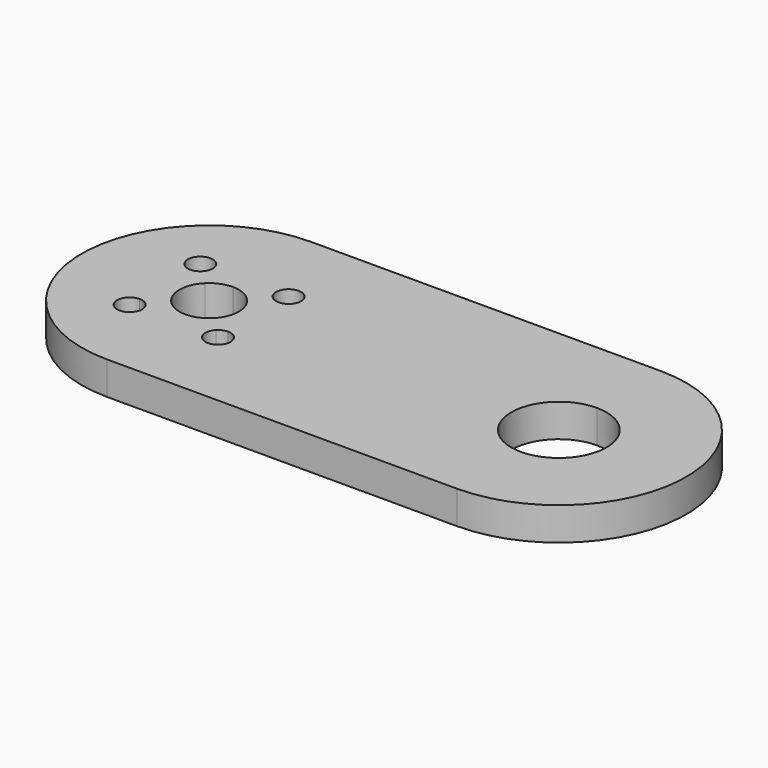
from build123d import *

# Parameters (mm, degrees)
F1_DEPTH = 6.604


with BuildPart() as f1:
    # F0 (on Top) → F1 (new body)
    with BuildSketch(Plane.XY):
        with BuildLine():
            Line((-35, 5.9436), (-35, 25.5))
            ThreePointArc((-35, 25.5), (-60.5, 0), (-35, -25.5))
            Line((-35, -25.5), (-35, -5.9436))
            ThreePointArc((-35, -5.9436), (-40.49117, -2.274517), (-39.20276, 4.20276))
            ThreePointArc((-39.20276, 4.20276), (-37.274517, 5.49117), (-35, 5.9436))
        make_face()
        with BuildLine():
            ThreePointArc((-41.338835, -8.839565), (-45.606602, -10.607332), (-43.838835, -6.339565))
            ThreePointArc((-43.838835, -6.339565), (-42.071068, -7.071798), (-41.338835, -8.839565))
        make_face(mode=Mode.SUBTRACT)
        with BuildLine():
            ThreePointArc((-41.338835, 8.838835), (-41.529136, 7.882126), (-42.071068, 7.071068))
            ThreePointArc((-42.071068, 7.071068), (-42.882126, 6.529136), (-43.838835, 6.338835))
            ThreePointArc((-43.838835, 6.338835), (-45.606602, 10.606602), (-41.338835, 8.838835))
        make_face(mode=Mode.SUBTRACT)
        with BuildLine():
            Line((35, 9.525), (35, 25.5))
            Line((35, 25.5), (-35, 25.5))
            Line((-35, 25.5), (-35, 5.9436))
            ThreePointArc((-35, 5.9436), (-30.79724, 4.20276), (-29.0564, 0))
            ThreePointArc((-29.0564, 0), (-29.50883, -2.274517), (-30.79724, -4.20276))
            ThreePointArc((-30.79724, -4.20276), (-32.725483, -5.49117), (-35, -5.9436))
            Line((-35, -5.9436), (-35, -25.5))
            Line((-35, -25.5), (35, -25.5))
            Line((35, -25.5), (35, -9.525))
            ThreePointArc((35, -9.525), (25.475, 0), (35, 9.525))
        make_face()
        with BuildLine():
            ThreePointArc((-23.663428, -8.836572), (-27.120137, -11.146271), (-27.931195, -7.068805))
            ThreePointArc((-27.931195, -7.068805), (-27.120137, -6.526873), (-26.163428, -6.336572))
            ThreePointArc((-26.163428, -6.336572), (-24.395661, -7.068805), (-23.663428, -8.836572))
        make_face(mode=Mode.SUBTRACT)
        with BuildLine():
            ThreePointArc((-23.663428, 8.841828), (-24.395661, 7.074061), (-26.163428, 6.341828))
            ThreePointArc((-26.163428, 6.341828), (-27.931195, 10.609595), (-23.663428, 8.841828))
        make_face(mode=Mode.SUBTRACT)
        with BuildLine():
            ThreePointArc((35, -25.5), (60.5, 0), (35, 25.5))
            Line((35, 25.5), (35, 9.525))
            ThreePointArc((35, 9.525), (41.735192, 6.735192), (44.525, 0))
            ThreePointArc((44.525, 0), (41.735192, -6.735192), (35, -9.525))
            Line((35, -9.525), (35, -25.5))
        make_face()
    extrude(amount=F1_DEPTH)


solid = f1.part
